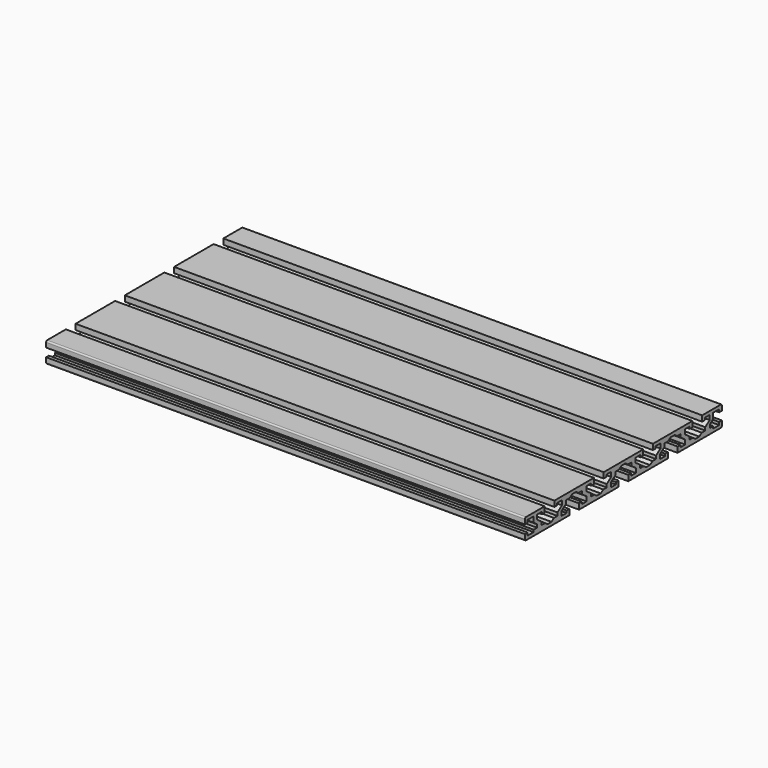
from build123d import *

# Parameters (mm, degrees)
PAD002_DEPTH            = 200
BODY002_PLACEMENT_ANGLE = 180
ARRAY001_Y_COUNT        = 4
ARRAY001_Y_PITCH        = 45
PAD001_DEPTH            = 200
ARRAY_Y_COUNT           = 3
ARRAY_Y_PITCH           = 45
PAD003_DEPTH            = 200
SKETCH_W                = 180
SKETCH_H                = 15
PAD_DEPTH               = 175
FILLET_R                = 1


with BuildPart() as array001:
    # Sketch002 → Pad002 (new body, symmetric)
    with BuildSketch(Plane.YZ):
        Polygon((-4.45, -8), (-4.45, -3.4), (-6.95, -3.4), (-6.95, -5), (-11.35, -5), (-11.35, -1.670587), (-7.25, 1.236157), (-7.25, 3.5), (-4.05682, 3.5), (-1.8, 5.1), (1.8, 5.1), (4.05682, 3.5), (7.25, 3.5), (7.25, 1.236157), (11.35, -1.670587), (11.35, -5), (6.95, -5), (6.95, -3.4), (4.45, -3.4), (4.45, -8), align=None)
    extrude(amount=PAD002_DEPTH, both=True)


with BuildPart() as array001_1:
    # Body002 placement: moved
    add(array001.part.moved(Location((0, -67.5, 0))).rotate(Axis((0, -67.5, 0), (1, 0, 0)), BODY002_PLACEMENT_ANGLE))

    # Array001 Y: Array001 ×4


with BuildPart() as array001_2:
    add(array001_1.part)
    with Locations(*[(0, i * ARRAY001_Y_PITCH, 0) for i in range(1, ARRAY001_Y_COUNT)]):
        add(array001_1.part)


with BuildPart() as array:
    # Sketch001 → Pad001 (new body, symmetric)
    with BuildSketch(Plane.YZ):
        Polygon((-4.45, -8), (-4.45, -3.4), (-6.95, -3.4), (-6.95, -5), (-11.35, -5), (-11.35, -1.670587), (-7.25, 1.236157), (-7.25, 3.5), (-4.05682, 3.5), (-1.8, 5.1), (1.8, 5.1), (4.05682, 3.5), (7.25, 3.5), (7.25, 1.236157), (11.35, -1.670587), (11.35, -5), (6.95, -5), (6.95, -3.4), (4.45, -3.4), (4.45, -8), align=None)
    extrude(amount=PAD001_DEPTH, both=True)


with BuildPart() as array_1:
    # Body001 placement: moved
    add(array.part.moved(Location((0, -45, 0))))

    # Array Y: Array ×3


with BuildPart() as array_2:
    add(array_1.part)
    with Locations(*[(0, i * ARRAY_Y_PITCH, 0) for i in range(1, ARRAY_Y_COUNT)]):
        add(array_1.part)


with BuildPart() as body003:
    # Sketch003 → Pad003 (new body, symmetric)
    with BuildSketch(Plane.YZ):
        Polygon((-90.5, 3.1), (-87.5, 3.1), (-87.5, 5.1), (-82, 5.1), (-82, 1.1), (-78.9, -1.3), (-78.9, -3.5), (-82, -3.5), (-82, -5.1), (-87.5, -5.1), (-87.5, -3.1), (-90.5, -3.1), align=None)
    extrude(amount=PAD003_DEPTH, both=True)


with BuildPart() as fusion:
    # Part__Mirroring: instance of Body003
    add(body003.part.mirror(Plane(origin=(0, 0, 0), x_dir=(1, 0, 0), z_dir=(0, 1, 0))))

    # Fusion: union Body003
    add(body003.part)


with BuildPart() as cut002:
    # Sketch → Pad (new body, symmetric)
    with BuildSketch(Plane.YZ):
        Rectangle(SKETCH_W, SKETCH_H)
    extrude(amount=PAD_DEPTH, both=True)

    # Fillet
    fillet_edges = [cut002.edges().sort_by_distance(p)[0] for p in [
        (0, -90, 7.5),
        (0, -90, -7.5),
        (0, 90, 7.5),
        (0, 90, -7.5),
    ]]
    fillet(fillet_edges, radius=FILLET_R)

    # Cut: cut Fusion
    add(fusion.part, mode=Mode.SUBTRACT)

    # Cut001: cut Array
    add(array_2.part, mode=Mode.SUBTRACT)

    # Cut002: cut Array001
    add(array001_2.part, mode=Mode.SUBTRACT)


solid = cut002.part
